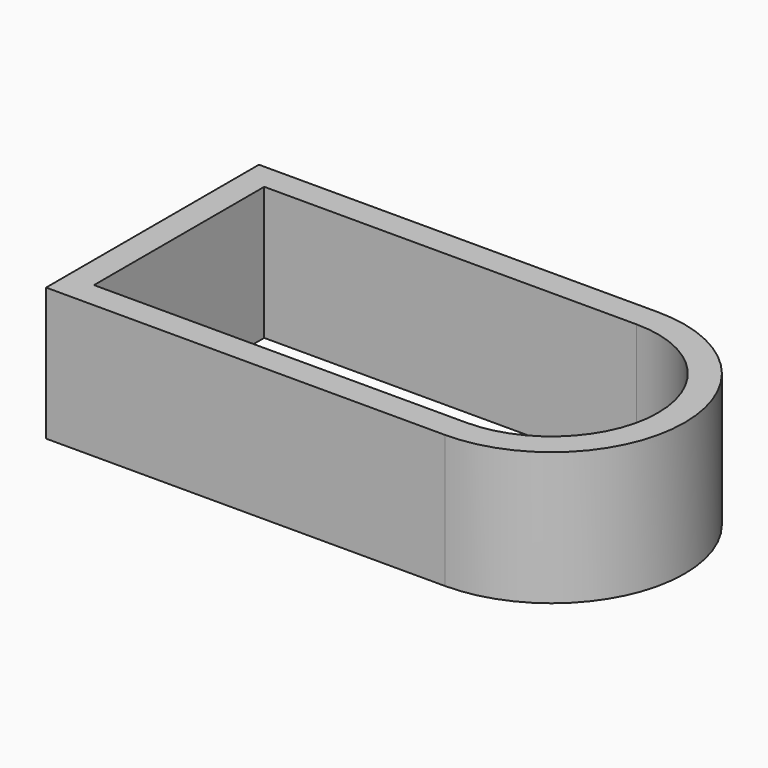
from build123d import *

# Parameters (mm, degrees)
F1_DEPTH = 50


with BuildPart() as f1:
    # F0 (on Top) → F1 (new body)
    with BuildSketch(Plane.XY):
        Polygon((39.4807644188, 48.3160374686), (-110.5192355812, 48.3160374686), (-110.5192355812, -51.6839625314), (39.4807644188, -51.6839625314), (39.4807644188, -41.6839625314), (-100.5192355812, -41.6839625314), (-100.5192355812, 38.3160374686), (39.4807644188, 38.3160374686), align=None)
        with BuildLine():
            ThreePointArc((39.4807644188, -51.6839625314), (89.4807644188, -1.6839625314), (39.4807644188, 48.3160374686))
            Line((39.4807644188, 48.3160374686), (39.4807644188, 38.3160374686))
            ThreePointArc((39.4807644188, 38.3160374686), (79.4807644188, -1.6839625314), (39.4807644188, -41.6839625314))
            Line((39.4807644188, -41.6839625314), (39.4807644188, -51.6839625314))
        make_face()
    extrude(amount=F1_DEPTH)


solid = f1.part
